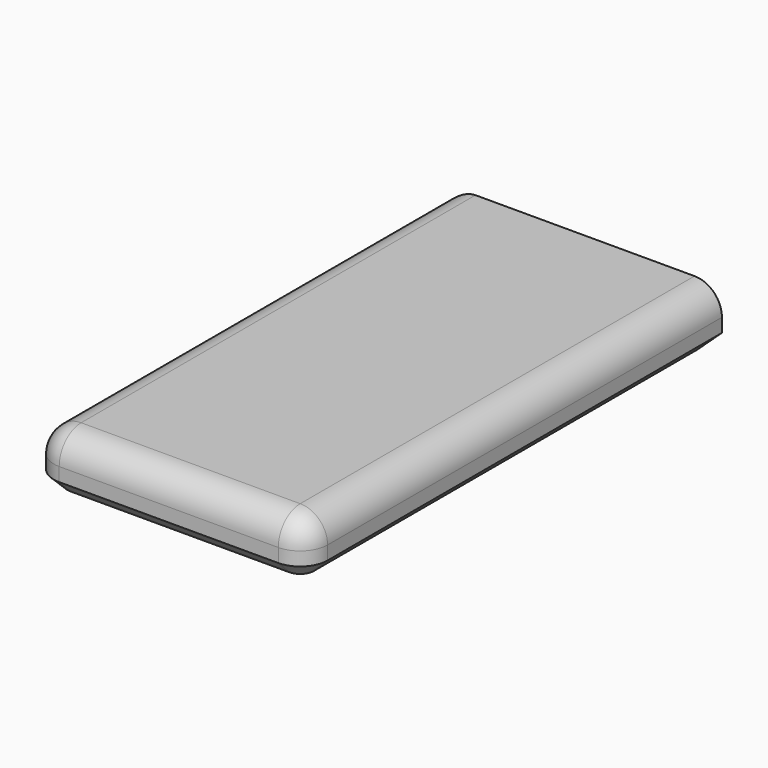
from build123d import *

# Parameters (mm, degrees)
SKETCH005_W     = 19
SKETCH005_H     = 2
PAD004_DEPTH    = 10
FILLET003_R     = 1
CHAMFER005_SIZE = 0.5


with BuildPart() as part:
    # Sketch005 → Pad004 (new body)
    with BuildSketch(Plane.YZ):
        with Locations((-9.5, 1)):
            Rectangle(SKETCH005_W, SKETCH005_H)
    extrude(amount=PAD004_DEPTH)

    # Fillet003
    fillet003_edges = [part.edges().sort_by_distance(p)[0] for p in [
        (5, -19, 2),
        (0, -19, 1),
        (0, -9.5, 2),
        (10, -9.5, 2),
        (0, 0, 1),
        (10, -19, 1),
    ]]
    fillet(fillet003_edges, radius=FILLET003_R)

    # Chamfer005
    chamfer005_edges = [part.edges().sort_by_distance(p)[0] for p in [
        (10, -9, 0),
    ]]
    chamfer(chamfer005_edges, length=CHAMFER005_SIZE)


with BuildPart() as part_1:
    # Body005 placement: moved
    add(part.part.moved(Location((3.8, 17.5, -4.7))))


solid = part_1.part
